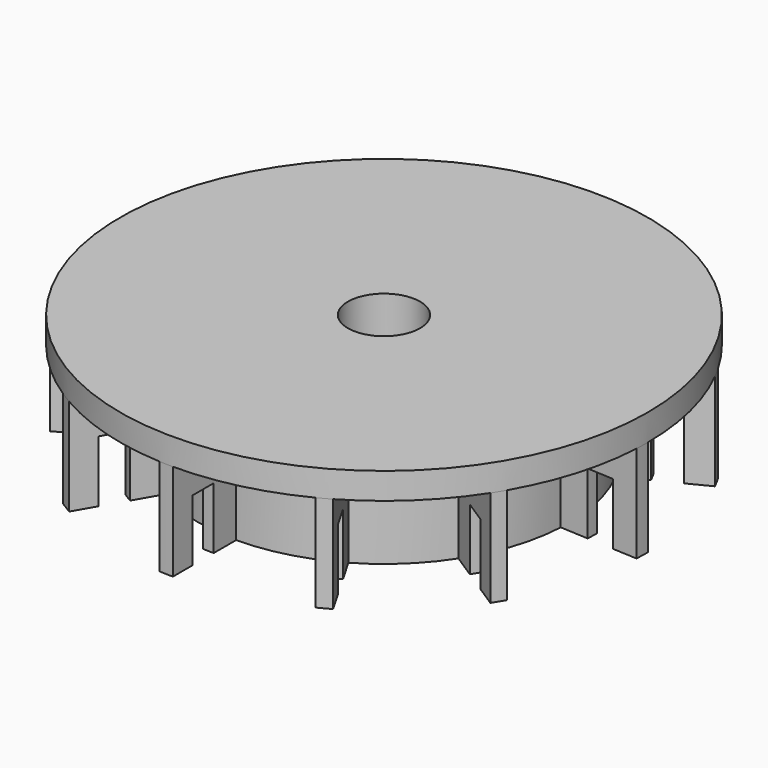
from build123d import *

# Parameters (mm, degrees)
F1_DEPTH = 5.5
F2_R     = 15
F3_DEPTH = 1.5
F4_R     = 13.6
F4_R_2   = 12.1
F5_DEPTH = 3.5
F6_R     = 2.05
F7_DEPTH = 7.001


with BuildPart() as f1:
    # F0 (on Top) → F1 (new body)
    with BuildSketch(Plane.XY):
        with BuildLine():
            Line((8.806041, -5.71871), (12.580059, -8.169586))
            ThreePointArc((12.580059, -8.169586), (12.789602, -7.837478), (12.990381, -7.5))
            Line((12.990381, -7.5), (9.093267, -5.25))
            ThreePointArc((9.093267, -5.25), (10.067607, -2.982161), (10.48561, -0.549528))
            Line((10.48561, -0.549528), (14.979443, -0.785039))
            ThreePointArc((14.979443, -0.785039), (14.99486, -0.392654), (15, 0))
            Line((15, 0), (10.5, 0))
            ThreePointArc((10.5, 0), (10.209884, 2.451176), (9.355569, 4.7669))
            Line((9.355569, 4.7669), (13.365098, 6.809857))
            ThreePointArc((13.365098, 6.809857), (13.182257, 7.157381), (12.990381, 7.5))
            Line((12.990381, 7.5), (9.093267, 5.25))
            ThreePointArc((9.093267, 5.25), (7.616431, 7.227723), (5.71871, 8.806041))
            Line((5.71871, 8.806041), (8.169586, 12.580059))
            ThreePointArc((8.169586, 12.580059), (7.837478, 12.789602), (7.5, 12.990381))
            Line((7.5, 12.990381), (5.25, 9.093267))
            ThreePointArc((5.25, 9.093267), (2.982161, 10.067607), (0.549528, 10.48561))
            Line((0.549528, 10.48561), (0.785039, 14.979443))
            ThreePointArc((0.785039, 14.979443), (0.392654, 14.99486), (0, 15))
            Line((0, 15), (0, 10.5))
            ThreePointArc((0, 10.5), (-2.451176, 10.209884), (-4.7669, 9.355569))
            Line((-4.7669, 9.355569), (-6.809857, 13.365098))
            ThreePointArc((-6.809857, 13.365098), (-7.157381, 13.182257), (-7.5, 12.990381))
            Line((-7.5, 12.990381), (-5.25, 9.093267))
            ThreePointArc((-5.25, 9.093267), (-7.227723, 7.616431), (-8.806041, 5.71871))
            Line((-8.806041, 5.71871), (-12.580059, 8.169586))
            ThreePointArc((-12.580059, 8.169586), (-12.789602, 7.837478), (-12.990381, 7.5))
            Line((-12.990381, 7.5), (-9.093267, 5.25))
            ThreePointArc((-9.093267, 5.25), (-10.067607, 2.982161), (-10.48561, 0.549528))
            Line((-10.48561, 0.549528), (-14.979443, 0.785039))
            ThreePointArc((-14.979443, 0.785039), (-14.99486, 0.392654), (-15, 0))
            Line((-15, 0), (-10.5, 0))
            ThreePointArc((-10.5, 0), (-10.209884, -2.451176), (-9.355569, -4.7669))
            Line((-9.355569, -4.7669), (-13.365098, -6.809857))
            ThreePointArc((-13.365098, -6.809857), (-13.182257, -7.157381), (-12.990381, -7.5))
            Line((-12.990381, -7.5), (-9.093267, -5.25))
            ThreePointArc((-9.093267, -5.25), (-7.616431, -7.227723), (-5.71871, -8.806041))
            Line((-5.71871, -8.806041), (-8.169586, -12.580059))
            ThreePointArc((-8.169586, -12.580059), (-7.837478, -12.789602), (-7.5, -12.990381))
            Line((-7.5, -12.990381), (-5.25, -9.093267))
            ThreePointArc((-5.25, -9.093267), (-2.982161, -10.067607), (-0.549528, -10.48561))
            Line((-0.549528, -10.48561), (-0.785039, -14.979443))
            ThreePointArc((-0.785039, -14.979443), (-0.392654, -14.99486), (0, -15))
            Line((0, -15), (0, -10.5))
            ThreePointArc((0, -10.5), (2.451176, -10.209884), (4.7669, -9.355569))
            Line((4.7669, -9.355569), (6.809857, -13.365098))
            ThreePointArc((6.809857, -13.365098), (7.157381, -13.182257), (7.5, -12.990381))
            Line((7.5, -12.990381), (5.25, -9.093267))
            ThreePointArc((5.25, -9.093267), (7.227723, -7.616431), (8.806041, -5.71871))
        make_face()
    extrude(amount=-F1_DEPTH)

    # F2 (on face) → F3 (join)
    with BuildSketch(Plane.XY):
        Circle(F2_R)
    extrude(amount=F3_DEPTH)

    # F4 (on face) → F5 (cut)
    with BuildSketch(Plane(origin=(0, 0, -5.5), x_dir=(1, 0, 0), z_dir=(0, 0, -1))):
        Circle(F4_R)
        Circle(F4_R_2, mode=Mode.SUBTRACT)
    extrude(amount=-F5_DEPTH, mode=Mode.SUBTRACT)

    # F6 (on face) → F7 (cut, through all)
    with BuildSketch(Plane.XY.offset(1.5)):
        Circle(F6_R)
    extrude(amount=-F7_DEPTH, mode=Mode.SUBTRACT)


solid = f1.part
